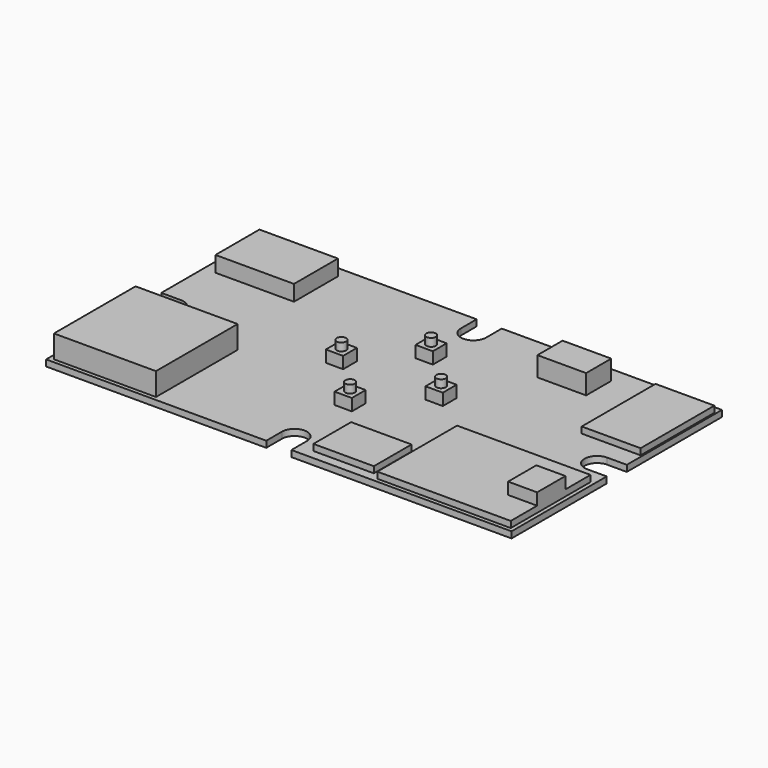
from build123d import *

# Parameters (mm, degrees)
PAD010_DEPTH  = 1.6
SKETCH055_W   = 15.4
SKETCH055_H   = 12
SKETCH055_W_2 = 15
SKETCH055_H_2 = 23.5
SKETCH055_W_3 = 34
SKETCH055_H_3 = 25.4
PAD011_DEPTH  = 1.6
SKETCH056_W   = 26
SKETCH056_H   = 26
PAD012_DEPTH  = 5.8
SKETCH057_W   = 20
SKETCH057_H   = 14
PAD013_DEPTH  = 4
SKETCH058_W   = 12.4
SKETCH058_H   = 8
PAD014_DEPTH  = 5
SKETCH059_W   = 7.4
SKETCH059_H   = 9
PAD015_DEPTH  = 3
SKETCH060_W   = 4.4
SKETCH060_H   = 4.4
PAD016_DEPTH  = 3
SKETCH061_R   = 1.2
PAD017_DEPTH  = 2


with BuildPart() as part:
    # Sketch053 → Pad010 (new body)
    with BuildSketch(Plane.XY):
        with BuildLine():
            Line((-59.3, -6.6), (-3.2, -6.6))
            Line((-3.2, -6.6), (-3.2, -11.6))
            ThreePointArc((-3.2, -11.6), (0, -14.8), (3.2, -11.6))
            Line((3.2, -6.6), (3.2, -11.6))
            Line((3.2, -6.6), (59.3, -6.6))
            Line((59.3, -6.6), (59.3, -36.9))
            Line((59.3, -36.9), (54.3, -36.9))
            ThreePointArc((54.3, -36.9), (51.1, -40.1), (54.3, -43.3))
            Line((59.3, -43.3), (54.3, -43.3))
            Line((59.3, -43.3), (59.3, -73.6))
            Line((59.3, -73.6), (3.2, -73.6))
            Line((3.2, -73.6), (3.2, -68.6))
            ThreePointArc((3.2, -68.6), (0, -65.4), (-3.2, -68.6))
            Line((-3.2, -73.6), (-3.2, -68.6))
            Line((-3.2, -73.6), (-59.3, -73.6))
            Line((-59.3, -73.6), (-59.3, -43.3))
            Line((-59.3, -43.3), (-54.3, -43.3))
            ThreePointArc((-54.3, -43.3), (-51.1, -40.1), (-54.3, -36.9))
            Line((-59.3, -36.9), (-54.3, -36.9))
            Line((-59.3, -36.9), (-59.3, -6.6))
        make_face()
    extrude(amount=PAD010_DEPTH)

    # Sketch055 (on Face22 of Pad010) → Pad011 (join)
    with BuildSketch(Plane.XY.offset(1.6)):
        with Locations((14.6, -65.2)):
            Rectangle(SKETCH055_W, SKETCH055_H)
        with Locations((51.4, -20.25)):
            Rectangle(SKETCH055_W_2, SKETCH055_H_2)
        with Locations((41.3, -59.9)):
            Rectangle(SKETCH055_W_3, SKETCH055_H_3)
    extrude(amount=PAD011_DEPTH)

    # Sketch056 (on Face5 of Pad011) → Pad012 (join)
    with BuildSketch(Plane.XY.offset(1.6)):
        with Locations((-45.1, -59.6)):
            Rectangle(SKETCH056_W, SKETCH056_H)
    extrude(amount=PAD012_DEPTH)

    # Sketch057 (on Face5 of Pad012) → Pad013 (join)
    with BuildSketch(Plane.XY.offset(1.6)):
        with Locations((-46.3, -16.4)):
            Rectangle(SKETCH057_W, SKETCH057_H)
    extrude(amount=PAD013_DEPTH)

    # Sketch058 (on Face5 of Pad013) → Pad014 (join)
    with BuildSketch(Plane.XY.offset(1.6)):
        with Locations((28.1, -14.6)):
            Rectangle(SKETCH058_W, SKETCH058_H)
    extrude(amount=PAD014_DEPTH)

    # Sketch059 (on Face47 of Pad014) → Pad015 (join)
    with BuildSketch(Plane.XY.offset(3.2)):
        with Locations((54.6, -59.7)):
            Rectangle(SKETCH059_W, SKETCH059_H)
    extrude(amount=PAD015_DEPTH)

    # Sketch060 (on Face5 of Pad015) → Pad016 (join)
    with BuildSketch(Plane.XY.offset(1.6)):
        with Locations((-12.7, -37.8)):
            Rectangle(SKETCH060_W, SKETCH060_H)
        with Locations((0, -25.1)):
            Rectangle(SKETCH060_W, SKETCH060_H)
        with Locations((12.7, -37.8)):
            Rectangle(SKETCH060_W, SKETCH060_H)
        with Locations((0, -50.9)):
            Rectangle(SKETCH060_W, SKETCH060_H)
    extrude(amount=PAD016_DEPTH)

    # Sketch061 (on Face71 of Pad016) → Pad017 (join)
    with BuildSketch(Plane.XY.offset(4.6)):
        with Locations((-12.7, -37.8)):
            Circle(SKETCH061_R)
        with Locations((0, -25.1)):
            Circle(SKETCH061_R)
        with Locations((12.7, -37.8)):
            Circle(SKETCH061_R)
        with Locations((0, -50.9)):
            Circle(SKETCH061_R)
    extrude(amount=PAD017_DEPTH)


with BuildPart() as part_1:
    # Body008 placement: moved
    add(part.part.moved(Location((0, 0, -9.8))))


solid = part_1.part
